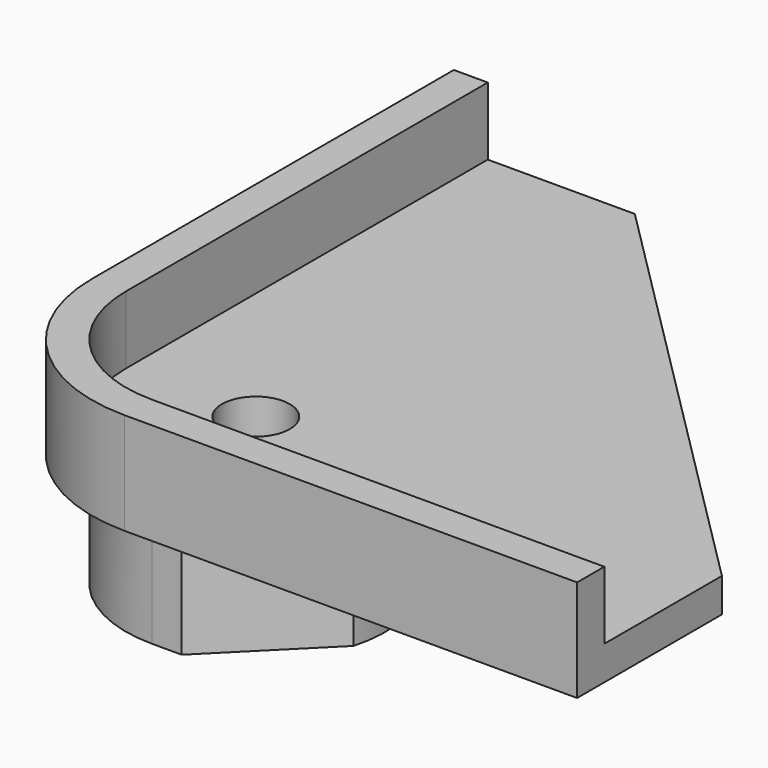
from build123d import *

# Parameters (mm, degrees)
F0_R      = 4.2
F0_R_2    = 2.9
F0_R_3    = 1.5
F1_DEPTH  = 1.5
F2_DEPTH  = 5
F3_DEPTH  = 3
F5_DEPTH  = 4.5
F7_W      = 1
F7_H      = 5
F8_DEPTH  = 10
F9_R      = 1
F10_DEPTH = 2
F11_R     = 1
F12_W     = 2.2280928679
F12_H     = 1.1955168769
F13_DEPTH = 3


with BuildPart() as f1:
    # F0 (on Top) → F1 (new body)
    with BuildSketch(Plane.XY):
        with BuildLine():
            Line((1.3210678119, -5.75), (5.5433312065, -1.5277366054))
            ThreePointArc((5.5433312065, -1.5277366054), (4.0658639918, 4.0658639918), (-1.5277366054, 5.5433312065))
            Line((-1.5277366054, 5.5433312065), (-5.75, 1.3210678119))
            Line((-5.75, 1.3210678119), (-5.75, 0))
            ThreePointArc((-5.75, 0), (-4.0658639918, -4.0658639918), (0, -5.75))
            Line((0, -5.75), (1.3210678119, -5.75))
        make_face()
        Circle(F0_R, mode=Mode.SUBTRACT)
        with BuildLine():
            ThreePointArc((-1.5277366054, 5.5433312065), (4.0658639918, 4.0658639918), (5.5433312065, -1.5277366054))
            Line((5.5433312065, -1.5277366054), (1.3210678119, -5.75))
            Line((1.3210678119, -5.75), (20, -5.75))
            Line((20, -5.75), (20, 0.75))
            Line((20, 0.75), (0.75, 20))
            Line((0.75, 20), (-5.75, 20))
            Line((-5.75, 20), (-5.75, 1.3210678119))
            Line((-5.75, 1.3210678119), (-1.5277366054, 5.5433312065))
        make_face()
        Circle(F0_R)
        Circle(F0_R_2, mode=Mode.SUBTRACT)
        Circle(F0_R_2)
        Circle(F0_R_3, mode=Mode.SUBTRACT)
    extrude(amount=F1_DEPTH)

    # F0 (on Top) → F2 (join)
    with BuildSketch(Plane.XY):
        with BuildLine():
            Line((1.3210678119, -5.75), (5.5433312065, -1.5277366054))
            ThreePointArc((5.5433312065, -1.5277366054), (4.0658639918, 4.0658639918), (-1.5277366054, 5.5433312065))
            Line((-1.5277366054, 5.5433312065), (-5.75, 1.3210678119))
            Line((-5.75, 1.3210678119), (-5.75, 0))
            ThreePointArc((-5.75, 0), (-4.0658639918, -4.0658639918), (0, -5.75))
            Line((0, -5.75), (1.3210678119, -5.75))
        make_face()
        Circle(F0_R, mode=Mode.SUBTRACT)
    extrude(amount=-F2_DEPTH)

    # F0 (on Top) → F3 (join)
    with BuildSketch(Plane.XY):
        Circle(F0_R_2)
        Circle(F0_R_3, mode=Mode.SUBTRACT)
    extrude(amount=-F3_DEPTH)

    # F4 (on Top) → F5 (join)
    with BuildSketch(Plane.XY):
        with BuildLine():
            ThreePointArc((0, -5.75), (-4.0658639918, -4.0658639918), (-5.75, 0))
            Line((-5.75, 0), (-5.75, 20))
            Line((-5.75, 20), (-7.25, 20))
            Line((-7.25, 20), (-7.25, 0))
            ThreePointArc((-7.25, 0), (-5.1265241636, -5.1265241636), (0, -7.25))
            Line((0, -7.25), (20, -7.25))
            Line((20, -7.25), (20, -5.75))
            Line((20, -5.75), (0, -5.75))
        make_face()
    extrude(amount=F5_DEPTH)

    # F7 (on offset) → F8 (cut)
    with BuildSketch(Plane(origin=(-3.5355339059, 3.5355339059, 0), x_dir=(-0.7071067812, -0.7071067812, 0), z_dir=(-0.7071067812, 0.7071067812, 0))):
        with Locations((-5.2581984438, -2.5)):
            Rectangle(F7_W, F7_H)
    extrude(amount=-F8_DEPTH, mode=Mode.SUBTRACT)

    # F9 (on face) → F10 (join)
    with BuildSketch(Plane(origin=(3.3645543858, 3.3645543858, 0), x_dir=(-0.7071067812, 0.7071067812, 0), z_dir=(0.7071067812, 0.7071067812, 0))):
        with Locations((0, -3.1)):
            Circle(F9_R)
    extrude(amount=F10_DEPTH)

    # F11
    f11_edges = [f1.edges().sort_by_distance(p)[0] for p in [
        (5.485875, 4.071661, -3.1),
    ]]
    fillet(f11_edges, radius=F11_R)

    # F12 (on face) → F13 (cut)
    with BuildSketch(Plane(origin=(3.3645543858, 3.3645543858, 0), x_dir=(-0.7071067812, 0.7071067812, 0), z_dir=(0.7071067812, 0.7071067812, 0))):
        with Locations((-0.035953708, -2.5022415616)):
            Rectangle(F12_W, F12_H)
    extrude(amount=F13_DEPTH, mode=Mode.SUBTRACT)


solid = f1.part
